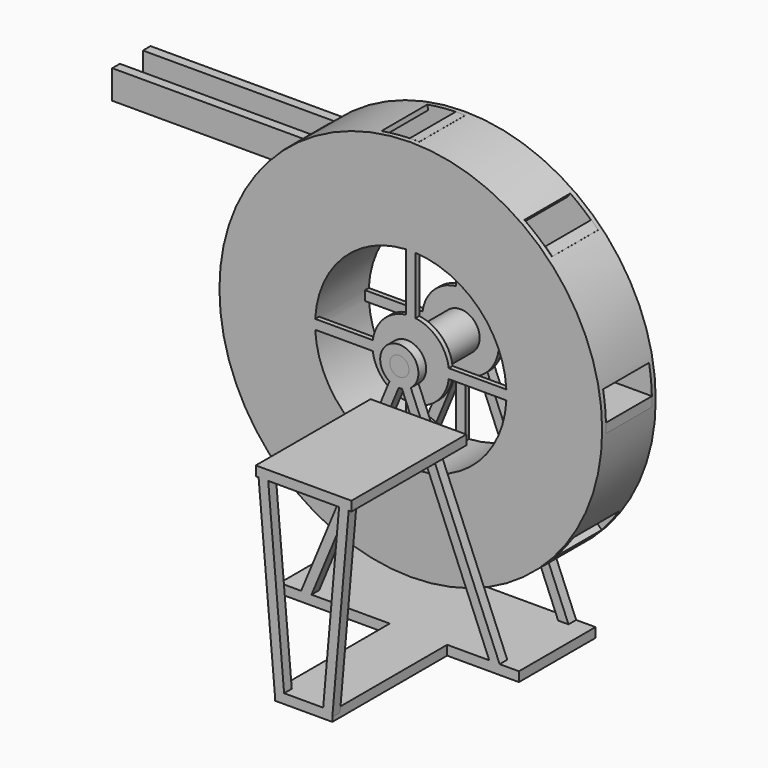
from build123d import *

# Parameters (mm, degrees)
CYLINDER007_R               = 1
CYLINDER007_DEPTH           = 10
BOX023_W                    = 40
BOX023_H                    = 1
BOX023_DEPTH                = 5
BOX025_W                    = 40
BOX025_H                    = 1
BOX025_DEPTH                = 2
BOX026_W                    = 40
BOX026_H                    = 1
BOX026_DEPTH                = 2
BOX029_W                    = 1
BOX029_H                    = 2
BOX029_DEPTH                = 3
FUSION014_PLACEMENT_ANGLE   = 90
BOX024_W                    = 2
BOX024_H                    = 9.5
BOX024_DEPTH                = 1
BOX021_W                    = 10
BOX021_H                    = 1
BOX021_DEPTH                = 15
BOX027_W                    = 1
BOX027_H                    = 20
BOX027_DEPTH                = 1
BOX027_PLACEMENT_ANGLE      = 355
BOX020_W                    = 25
BOX020_H                    = 1
BOX020_DEPTH                = 10
BOX022_W                    = 6
BOX022_H                    = 1
BOX022_DEPTH                = 15
BOX028_W                    = 1
BOX028_H                    = 20
BOX028_DEPTH                = 1
BOX028_PLACEMENT_ANGLE      = 5
BOX017_W                    = 1
BOX017_H                    = 25
BOX017_DEPTH                = 1
BOX017_PLACEMENT_ANGLE      = 135
BOX_W                       = 1
BOX_H                       = 1
BOX_DEPTH                   = 25
CYLINDER013_R               = 1
CYLINDER013_DEPTH           = 1
CYLINDER014_R               = 2
CYLINDER014_DEPTH           = 1
FUSION008_PLACEMENT_ANGLE   = 22.5
BOX019_W                    = 1
BOX019_H                    = 25
BOX019_DEPTH                = 1
BOX019_PLACEMENT_ANGLE      = 135
BOX018_W                    = 1
BOX018_H                    = 1
BOX018_DEPTH                = 25
CYLINDER016_R               = 1
CYLINDER016_DEPTH           = 1
CYLINDER015_R               = 2
CYLINDER015_DEPTH           = 1
FUSION009_PLACEMENT_ANGLE   = 22.5
CYLINDER033_W               = 0.9
CYLINDER033_H               = 2
CYLINDER033_ANGLE           = 180
BOX030_W                    = 2
BOX030_H                    = 1
BOX030_DEPTH                = 2
FUSION015_PLACEMENT_ANGLE   = 90
CYLINDER029_R               = 0.5
CYLINDER029_DEPTH           = 1
CYLINDER032_R               = 0.5
CYLINDER032_DEPTH           = 1
CYLINDER024_R               = 0.5
CYLINDER024_DEPTH           = 1
CYLINDER031_R               = 0.5
CYLINDER031_DEPTH           = 1
CYLINDER030_R               = 0.5
CYLINDER030_DEPTH           = 1
CYLINDER022_R               = 0.5
CYLINDER022_DEPTH           = 1
CYLINDER021_R               = 0.5
CYLINDER021_DEPTH           = 1
CYLINDER020_R               = 0.5
CYLINDER020_DEPTH           = 1
CYLINDER019_R               = 1
CYLINDER019_DEPTH           = 10
CYLINDER018_W               = 20
CYLINDER018_H               = 7
CYLINDER018_ANGLE           = 10
CYLINDER018_PLACEMENT_ANGLE = 44
CYLINDER017_W               = 20
CYLINDER017_H               = 7
CYLINDER017_ANGLE           = 10
CYLINDER028_W               = 20
CYLINDER028_H               = 7
CYLINDER028_ANGLE           = 10
CYLINDER027_W               = 20
CYLINDER027_H               = 7
CYLINDER027_ANGLE           = 10
CYLINDER027_PLACEMENT_ANGLE = 227
CYLINDER026_W               = 20
CYLINDER026_H               = 7
CYLINDER026_ANGLE           = 10
CYLINDER025_W               = 20
CYLINDER025_H               = 7
CYLINDER025_ANGLE           = 10
CYLINDER025_PLACEMENT_ANGLE = 135
CYLINDER012_W               = 20
CYLINDER012_H               = 7
CYLINDER012_ANGLE           = 10
CYLINDER012_PLACEMENT_ANGLE = 45
CYLINDER011_W               = 20
CYLINDER011_H               = 7
CYLINDER011_ANGLE           = 10
CYLINDER001_R               = 19.5
CYLINDER001_DEPTH           = 7
CYLINDER_R                  = 20
CYLINDER_DEPTH              = 7
CYLINDER008_R               = 10
CYLINDER008_DEPTH           = 6
CYLINDER009_R               = 11
CYLINDER009_DEPTH           = 6
BOX010_W                    = 1
BOX010_H                    = 10
BOX010_DEPTH                = 6
BOX010_PLACEMENT_ANGLE      = 45
BOX004_W                    = 1
BOX004_H                    = 10
BOX004_DEPTH                = 6
BOX011_W                    = 1
BOX011_H                    = 10
BOX011_DEPTH                = 6
BOX014_W                    = 1
BOX014_H                    = 10
BOX014_DEPTH                = 6
BOX014_PLACEMENT_ANGLE      = 45
BOX013_W                    = 1
BOX013_H                    = 10
BOX013_DEPTH                = 6
BOX012_W                    = 1
BOX012_H                    = 10
BOX012_DEPTH                = 6
BOX015_W                    = 1
BOX015_H                    = 10
BOX015_DEPTH                = 6
BOX015_PLACEMENT_ANGLE      = 45
BOX016_W                    = 1
BOX016_H                    = 10
BOX016_DEPTH                = 6
BOX016_PLACEMENT_ANGLE      = 45
CYLINDER005_R               = 10
CYLINDER005_DEPTH           = 0.5
CYLINDER006_R               = 20
CYLINDER006_DEPTH           = 0.5
BOX007_W                    = 20
BOX007_H                    = 1
BOX007_DEPTH                = 0.5
BOX001_W                    = 20
BOX001_H                    = 1
BOX001_DEPTH                = 0.5
CYLINDER002_R               = 4
CYLINDER002_DEPTH           = 0.5
CYLINDER003_R               = 10
CYLINDER003_DEPTH           = 0.5
CYLINDER010_R               = 20
CYLINDER010_DEPTH           = 0.5
BOX009_W                    = 20
BOX009_H                    = 1
BOX009_DEPTH                = 0.5
CYLINDER004_R               = 4
CYLINDER004_DEPTH           = 0.5
BOX008_W                    = 20
BOX008_H                    = 1
BOX008_DEPTH                = 0.5
CUT020_PLACEMENT_ANGLE      = 90
CYLINDER035_R               = 1
CYLINDER035_DEPTH           = 6
CYLINDER034_R               = 2
CYLINDER034_DEPTH           = 6


with BuildPart() as eje:
    # Cylinder007 → Cylinder007 (new body)
    with BuildSketch(Plane(origin=(0, 2, 25), x_dir=(1, 0, 0), z_dir=(0, -1, 0))):
        Circle(CYLINDER007_R)
    extrude(amount=CYLINDER007_DEPTH)


with BuildPart() as cubo021:
    # Box023 → Box023 (new body)
    with BuildSketch(Plane(origin=(-38, 33, -7), x_dir=(1, 0, 0), z_dir=(0, 0, 1))):
        with Locations((20, 0.5)):
            Rectangle(BOX023_W, BOX023_H)
    extrude(amount=BOX023_DEPTH)


with BuildPart() as cubo023:
    # Box025 → Box025 (new body)
    with BuildSketch(Plane(origin=(-38, 36, -7), x_dir=(1, 0, 0), z_dir=(0, -1, 0))):
        with Locations((20, 0.5)):
            Rectangle(BOX025_W, BOX025_H)
    extrude(amount=BOX025_DEPTH)


with BuildPart() as cubo024:
    # Box026 → Box026 (new body)
    with BuildSketch(Plane(origin=(-38, 36, -3), x_dir=(1, 0, 0), z_dir=(0, -1, 0))):
        with Locations((20, 0.5)):
            Rectangle(BOX026_W, BOX026_H)
    extrude(amount=BOX026_DEPTH)


with BuildPart() as canal:
    # Box029 → Box029 (new body)
    with BuildSketch(Plane(origin=(1, 34, -6), x_dir=(1, 0, 0), z_dir=(0, 0, 1))):
        with Locations((0.5, 1)):
            Rectangle(BOX029_W, BOX029_H)
    extrude(amount=BOX029_DEPTH)

    # Fusion014: union Cubo021, Cubo023, Cubo024
    add(cubo021.part)
    add(cubo023.part)
    add(cubo024.part)


with BuildPart() as canal_1:
    # Fusion014 placement: moved
    add(canal.part.rotate(Axis((0, 0, 0), (1, 0, 0)), FUSION014_PLACEMENT_ANGLE))


with BuildPart() as cubo022:
    # Box024 → Box024 (new body)
    with BuildSketch(Plane(origin=(-1, 26.5, -2), x_dir=(1, 0, 0), z_dir=(0, 0, 1))):
        with Locations((1, 4.75)):
            Rectangle(BOX024_W, BOX024_H)
    extrude(amount=BOX024_DEPTH)


with BuildPart() as cubo019:
    # Box021 → Box021 (new body)
    with BuildSketch(Plane(origin=(-3, 20, 8), x_dir=(1, 0, 0), z_dir=(0, 0, 1))):
        with Locations((5, 0.5)):
            Rectangle(BOX021_W, BOX021_H)
    extrude(amount=BOX021_DEPTH)


with BuildPart() as cubo025:
    # Box027 → Box027 (new body)
    with BuildSketch(Plane.XY):
        with Locations((0.5, 10)):
            Rectangle(BOX027_W, BOX027_H)
    extrude(amount=BOX027_DEPTH)


with BuildPart() as cubo025_1:
    # Box027 placement: moved
    add(cubo025.part.moved(Location((4, 0.5, 22))).rotate(Axis((4, 0.5, 22), (0, 0, 1)), BOX027_PLACEMENT_ANGLE))


with BuildPart() as base:
    # Box020 → Box020 (new body)
    with BuildSketch(Plane(origin=(-12.5, 0, -2), x_dir=(1, 0, 0), z_dir=(0, 0, 1))):
        with Locations((12.5, 0.5)):
            Rectangle(BOX020_W, BOX020_H)
    extrude(amount=BOX020_DEPTH)


with BuildPart() as obj1:
    # Box022 → Box022 (new body)
    with BuildSketch(Plane(origin=(-1, 0, 8), x_dir=(1, 0, 0), z_dir=(0, 0, 1))):
        with Locations((3, 0.5)):
            Rectangle(BOX022_W, BOX022_H)
    extrude(amount=BOX022_DEPTH)

    # Fusion011: union BASE
    add(base.part)


with BuildPart() as cubo026:
    # Box028 → Box028 (new body)
    with BuildSketch(Plane.XY):
        with Locations((0.5, 10)):
            Rectangle(BOX028_W, BOX028_H)
    extrude(amount=BOX028_DEPTH)


with BuildPart() as cubo026_1:
    # Box028 placement: moved
    add(cubo026.part.moved(Location((-1, 0.5, 22))).rotate(Axis((-1, 0.5, 22), (0, 0, 1)), BOX028_PLACEMENT_ANGLE))


with BuildPart() as cubo016:
    # Box017 → Box017 (new body)
    with BuildSketch(Plane.XY):
        with Locations((0.5, 12.5)):
            Rectangle(BOX017_W, BOX017_H)
    extrude(amount=BOX017_DEPTH)


with BuildPart() as cubo016_1:
    # Box017 placement: moved
    add(cubo016.part.moved(Location((-0.5, -1.5, -2))).rotate(Axis((-0.5, -1.5, -2), (0, 0, 1)), BOX017_PLACEMENT_ANGLE))


with BuildPart() as cubo015:
    # Box → Box (new body)
    with BuildSketch(Plane(origin=(-0.5, -1.5, -2), x_dir=(1, 0, 0), z_dir=(0, -1, 0))):
        with Locations((0.5, 0.5)):
            Rectangle(BOX_W, BOX_H)
    extrude(amount=BOX_DEPTH)


with BuildPart() as cilindro013:
    # Cylinder013 → Cylinder013 (new body)
    with BuildSketch(Plane.XY.offset(6.5)):
        Circle(CYLINDER013_R)
    extrude(amount=CYLINDER013_DEPTH)


with BuildPart() as obj2:
    # Cylinder014 → Cylinder014 (new body)
    with BuildSketch(Plane.XY.offset(6.5)):
        Circle(CYLINDER014_R)
    extrude(amount=CYLINDER014_DEPTH)

    # Cut004: cut Cilindro013
    add(cilindro013.part, mode=Mode.SUBTRACT)


with BuildPart() as obj2_1:
    # Cut004 placement: moved
    add(obj2.part.moved(Location((0, 0, -8.5))))

    # Fusion008: union Cubo016, Cubo015
    add(cubo016_1.part)
    add(cubo015.part)


with BuildPart() as obj2_2:
    # Fusion008 placement: moved
    add(obj2_1.part.moved(Location((0, 25, 0))).rotate(Axis((0, 25, 0), (0, 0, 1)), FUSION008_PLACEMENT_ANGLE))


with BuildPart() as cubo018:
    # Box019 → Box019 (new body)
    with BuildSketch(Plane.XY):
        with Locations((0.5, 12.5)):
            Rectangle(BOX019_W, BOX019_H)
    extrude(amount=BOX019_DEPTH)


with BuildPart() as cubo018_1:
    # Box019 placement: moved
    add(cubo018.part.moved(Location((-0.5, -1.5, -2))).rotate(Axis((-0.5, -1.5, -2), (0, 0, 1)), BOX019_PLACEMENT_ANGLE))


with BuildPart() as cubo017:
    # Box018 → Box018 (new body)
    with BuildSketch(Plane(origin=(-0.5, -1.5, -2), x_dir=(1, 0, 0), z_dir=(0, -1, 0))):
        with Locations((0.5, 0.5)):
            Rectangle(BOX018_W, BOX018_H)
    extrude(amount=BOX018_DEPTH)


with BuildPart() as cilindro016:
    # Cylinder016 → Cylinder016 (new body)
    with BuildSketch(Plane.XY.offset(6.5)):
        Circle(CYLINDER016_R)
    extrude(amount=CYLINDER016_DEPTH)


with BuildPart() as obj3:
    # Cylinder015 → Cylinder015 (new body)
    with BuildSketch(Plane.XY.offset(6.5)):
        Circle(CYLINDER015_R)
    extrude(amount=CYLINDER015_DEPTH)

    # Cut005: cut Cilindro016
    add(cilindro016.part, mode=Mode.SUBTRACT)


with BuildPart() as obj3_1:
    # Cut005 placement: moved
    add(obj3.part.moved(Location((0, 0, -8.5))))

    # Fusion009: union Cubo018, Cubo017
    add(cubo018_1.part)
    add(cubo017.part)


with BuildPart() as obj3_2:
    # Fusion009 placement: moved
    add(obj3_1.part.moved(Location((0, 25, 9))).rotate(Axis((0, 25, 9), (0, 0, 1)), FUSION009_PLACEMENT_ANGLE))


with BuildPart() as cilindro033:
    # Cylinder033 → Cylinder033 (revolve)
    with BuildSketch(Plane(origin=(0, 37, -3), x_dir=(-1, 0, 0), z_dir=(0, 1, 0))):
        with Locations((0.45, 1)):
            Rectangle(CYLINDER033_W, CYLINDER033_H)
    revolve(axis=Axis((0, 37, -3), (0, 0, 1)), revolution_arc=CYLINDER033_ANGLE)


with BuildPart() as obj4:
    # Box030 → Box030 (new body)
    with BuildSketch(Plane(origin=(-1, 36, -3), x_dir=(1, 0, 0), z_dir=(0, 0, 1))):
        with Locations((1, 0.5)):
            Rectangle(BOX030_W, BOX030_H)
    extrude(amount=BOX030_DEPTH)

    # Cut023: cut Cilindro033
    add(cilindro033.part, mode=Mode.SUBTRACT)

    # Fusion015: union Cubo022, Cubo019, Cubo025, obj1, Cubo026, obj2, obj3
    add(cubo022.part)
    add(cubo019.part)
    add(cubo025_1.part)
    add(obj1.part)
    add(cubo026_1.part)
    add(obj2_2.part)
    add(obj3_2.part)


with BuildPart() as obj4_1:
    # Fusion015 placement: moved
    add(obj4.part.rotate(Axis((0, 0, 0), (1, 0, 0)), FUSION015_PLACEMENT_ANGLE))


with BuildPart() as cilindro029:
    # Cylinder029 → Cylinder029 (new body)
    with BuildSketch(Plane(origin=(-9.5, -8, -1), x_dir=(1, 0, 0), z_dir=(0, 0, 1))):
        Circle(CYLINDER029_R)
    extrude(amount=CYLINDER029_DEPTH)


with BuildPart() as cilindro032:
    # Cylinder032 → Cylinder032 (new body)
    with BuildSketch(Plane(origin=(-12, 1.5, -1), x_dir=(1, 0, 0), z_dir=(0, 0, 1))):
        Circle(CYLINDER032_R)
    extrude(amount=CYLINDER032_DEPTH)


with BuildPart() as cilindro024:
    # Cylinder024 → Cylinder024 (new body)
    with BuildSketch(Plane(origin=(-1.5, -12, -1), x_dir=(1, 0, 0), z_dir=(0, 0, 1))):
        Circle(CYLINDER024_R)
    extrude(amount=CYLINDER024_DEPTH)


with BuildPart() as cilindro031:
    # Cylinder031 → Cylinder031 (new body)
    with BuildSketch(Plane(origin=(-7, 9.5, -1), x_dir=(1, 0, 0), z_dir=(0, 0, 1))):
        Circle(CYLINDER031_R)
    extrude(amount=CYLINDER031_DEPTH)


with BuildPart() as cilindro030:
    # Cylinder030 → Cylinder030 (new body)
    with BuildSketch(Plane(origin=(9, 7.5, -1), x_dir=(1, 0, 0), z_dir=(0, 0, 1))):
        Circle(CYLINDER030_R)
    extrude(amount=CYLINDER030_DEPTH)


with BuildPart() as cilindro022:
    # Cylinder022 → Cylinder022 (new body)
    with BuildSketch(Plane(origin=(12, -1.5, -1), x_dir=(1, 0, 0), z_dir=(0, 0, 1))):
        Circle(CYLINDER022_R)
    extrude(amount=CYLINDER022_DEPTH)


with BuildPart() as cilindro021:
    # Cylinder021 → Cylinder021 (new body)
    with BuildSketch(Plane(origin=(1.5, 12, -1), x_dir=(1, 0, 0), z_dir=(0, 0, 1))):
        Circle(CYLINDER021_R)
    extrude(amount=CYLINDER021_DEPTH)


with BuildPart() as cilindro020:
    # Cylinder020 → Cylinder020 (new body)
    with BuildSketch(Plane(origin=(7.5, -9.5, -1), x_dir=(1, 0, 0), z_dir=(0, 0, 1))):
        Circle(CYLINDER020_R)
    extrude(amount=CYLINDER020_DEPTH)


with BuildPart() as cilindro019:
    # Cylinder019 → Cylinder019 (new body)
    with BuildSketch(Plane.XY.offset(-1)):
        Circle(CYLINDER019_R)
    extrude(amount=CYLINDER019_DEPTH)


with BuildPart() as cilindro018:
    # Cylinder018 → Cylinder018 (revolve)
    with BuildSketch(Plane.XZ):
        with Locations((10, 3.5)):
            Rectangle(CYLINDER018_W, CYLINDER018_H)
    revolve(axis=Axis((0, 0, 0), (0, 0, 1)), revolution_arc=CYLINDER018_ANGLE)


with BuildPart() as cilindro018_1:
    # Cylinder018 placement: moved
    add(cilindro018.part.moved(Location((0, 0, -0.5))).rotate(Axis((0, 0, -0.5), (0, 0, -1)), CYLINDER018_PLACEMENT_ANGLE))


with BuildPart() as cilindro017:
    # Cylinder017 → Cylinder017 (revolve)
    with BuildSketch(Plane(origin=(0, 0, -0.5), x_dir=(0, -1, 0), z_dir=(-1, 0, 0))):
        with Locations((10, 3.5)):
            Rectangle(CYLINDER017_W, CYLINDER017_H)
    revolve(axis=Axis((0, 0, -0.5), (0, 0, 1)), revolution_arc=CYLINDER017_ANGLE)


with BuildPart() as cilindro028:
    # Cylinder028 → Cylinder028 (revolve)
    with BuildSketch(Plane(origin=(0, 0, -0.5), x_dir=(-1, 0, 0), z_dir=(0, 1, 0))):
        with Locations((10, 3.5)):
            Rectangle(CYLINDER028_W, CYLINDER028_H)
    revolve(axis=Axis((0, 0, -0.5), (0, 0, 1)), revolution_arc=CYLINDER028_ANGLE)


with BuildPart() as cilindro027:
    # Cylinder027 → Cylinder027 (revolve)
    with BuildSketch(Plane.XZ):
        with Locations((10, 3.5)):
            Rectangle(CYLINDER027_W, CYLINDER027_H)
    revolve(axis=Axis((0, 0, 0), (0, 0, 1)), revolution_arc=CYLINDER027_ANGLE)


with BuildPart() as cilindro027_1:
    # Cylinder027 placement: moved
    add(cilindro027.part.moved(Location((0, 0, -0.5))).rotate(Axis((0, 0, -0.5), (0, 0, 1)), CYLINDER027_PLACEMENT_ANGLE))


with BuildPart() as cilindro026:
    # Cylinder026 → Cylinder026 (revolve)
    with BuildSketch(Plane(origin=(0, 0, -0.5), x_dir=(0, 1, 0), z_dir=(1, 0, 0))):
        with Locations((10, 3.5)):
            Rectangle(CYLINDER026_W, CYLINDER026_H)
    revolve(axis=Axis((0, 0, -0.5), (0, 0, 1)), revolution_arc=CYLINDER026_ANGLE)


with BuildPart() as cilindro025:
    # Cylinder025 → Cylinder025 (revolve)
    with BuildSketch(Plane.XZ):
        with Locations((10, 3.5)):
            Rectangle(CYLINDER025_W, CYLINDER025_H)
    revolve(axis=Axis((0, 0, 0), (0, 0, 1)), revolution_arc=CYLINDER025_ANGLE)


with BuildPart() as cilindro025_1:
    # Cylinder025 placement: moved
    add(cilindro025.part.moved(Location((0, 0, -0.5))).rotate(Axis((0, 0, -0.5), (0, 0, 1)), CYLINDER025_PLACEMENT_ANGLE))


with BuildPart() as cilindro012:
    # Cylinder012 → Cylinder012 (revolve)
    with BuildSketch(Plane.XZ):
        with Locations((10, 3.5)):
            Rectangle(CYLINDER012_W, CYLINDER012_H)
    revolve(axis=Axis((0, 0, 0), (0, 0, 1)), revolution_arc=CYLINDER012_ANGLE)


with BuildPart() as cilindro012_1:
    # Cylinder012 placement: moved
    add(cilindro012.part.moved(Location((0, 0, -0.5))).rotate(Axis((0, 0, -0.5), (0, 0, 1)), CYLINDER012_PLACEMENT_ANGLE))


with BuildPart() as cilindro011:
    # Cylinder011 → Cylinder011 (revolve)
    with BuildSketch(Plane(origin=(0, 0, -0.5), x_dir=(1, 0, 0), z_dir=(0, -1, 0))):
        with Locations((10, 3.5)):
            Rectangle(CYLINDER011_W, CYLINDER011_H)
    revolve(axis=Axis((0, 0, -0.5), (0, 0, 1)), revolution_arc=CYLINDER011_ANGLE)


with BuildPart() as cilindro001:
    # Cylinder001 → Cylinder001 (new body)
    with BuildSketch(Plane.XY):
        Circle(CYLINDER001_R)
    extrude(amount=CYLINDER001_DEPTH)


with BuildPart() as cut011:
    # Cylinder → Cylinder (new body)
    with BuildSketch(Plane.XY):
        Circle(CYLINDER_R)
    extrude(amount=CYLINDER_DEPTH)

    # Cut: cut Cilindro001
    add(cilindro001.part, mode=Mode.SUBTRACT)


with BuildPart() as cut011_1:
    # Cut placement: moved
    add(cut011.part.moved(Location((0, 0, -0.5))))

    # Cut021: cut Cilindro011
    add(cilindro011.part, mode=Mode.SUBTRACT)

    # Cut022: cut Cilindro012
    add(cilindro012_1.part, mode=Mode.SUBTRACT)

    # Cut006: cut Cilindro025
    add(cilindro025_1.part, mode=Mode.SUBTRACT)

    # Cut007: cut Cilindro026
    add(cilindro026.part, mode=Mode.SUBTRACT)

    # Cut008: cut Cilindro027
    add(cilindro027_1.part, mode=Mode.SUBTRACT)

    # Cut009: cut Cilindro028
    add(cilindro028.part, mode=Mode.SUBTRACT)

    # Cut010: cut Cilindro017
    add(cilindro017.part, mode=Mode.SUBTRACT)

    # Cut011: cut Cilindro018
    add(cilindro018_1.part, mode=Mode.SUBTRACT)


with BuildPart() as cilindro008:
    # Cylinder008 → Cylinder008 (new body)
    with BuildSketch(Plane.XY):
        Circle(CYLINDER008_R)
    extrude(amount=CYLINDER008_DEPTH)


with BuildPart() as cut003:
    # Cylinder009 → Cylinder009 (new body)
    with BuildSketch(Plane.XY):
        Circle(CYLINDER009_R)
    extrude(amount=CYLINDER009_DEPTH)

    # Cut003: cut Cilindro008
    add(cilindro008.part, mode=Mode.SUBTRACT)


with BuildPart() as cubo009:
    # Box010 → Box010 (new body)
    with BuildSketch(Plane.XY):
        with Locations((0.5, 5)):
            Rectangle(BOX010_W, BOX010_H)
    extrude(amount=BOX010_DEPTH)


with BuildPart() as cubo009_1:
    # Box010 placement: moved
    add(cubo009.part.moved(Location((-7.311779, 6.874026, 0))).rotate(Axis((-7.311779, 6.874026, 0), (0, 0, 1)), BOX010_PLACEMENT_ANGLE))


with BuildPart() as cubo011:
    # Box004 → Box004 (new body)
    with BuildSketch(Plane(origin=(-0.5, 10, 0), x_dir=(1, 0, 0), z_dir=(0, 0, 1))):
        with Locations((0.5, 5)):
            Rectangle(BOX004_W, BOX004_H)
    extrude(amount=BOX004_DEPTH)


with BuildPart() as cubo010:
    # Box011 → Box011 (new body)
    with BuildSketch(Plane(origin=(-0.5, -20, 0), x_dir=(1, 0, 0), z_dir=(0, 0, 1))):
        with Locations((0.5, 5)):
            Rectangle(BOX011_W, BOX011_H)
    extrude(amount=BOX011_DEPTH)


with BuildPart() as cubo012:
    # Box014 → Box014 (new body)
    with BuildSketch(Plane.XY):
        with Locations((0.5, 5)):
            Rectangle(BOX014_W, BOX014_H)
    extrude(amount=BOX014_DEPTH)


with BuildPart() as cubo012_1:
    # Box014 placement: moved
    add(cubo012.part.moved(Location((14.04, -14.23, 0))).rotate(Axis((14.04, -14.23, 0), (0, 0, 1)), BOX014_PLACEMENT_ANGLE))


with BuildPart() as cubo007:
    # Box013 → Box013 (new body)
    with BuildSketch(Plane(origin=(20, -0.5, 0), x_dir=(0, 1, 0), z_dir=(0, 0, 1))):
        with Locations((0.5, 5)):
            Rectangle(BOX013_W, BOX013_H)
    extrude(amount=BOX013_DEPTH)


with BuildPart() as cubo006:
    # Box012 → Box012 (new body)
    with BuildSketch(Plane(origin=(-10, -0.5, 0), x_dir=(0, 1, 0), z_dir=(0, 0, 1))):
        with Locations((0.5, 5)):
            Rectangle(BOX012_W, BOX012_H)
    extrude(amount=BOX012_DEPTH)


with BuildPart() as cubo013:
    # Box015 → Box015 (new body)
    with BuildSketch(Plane.XY):
        with Locations((0.5, 5)):
            Rectangle(BOX015_W, BOX015_H)
    extrude(amount=BOX015_DEPTH)


with BuildPart() as cubo013_1:
    # Box015 placement: moved
    add(cubo013.part.moved(Location((-14, -14.3, 0))).rotate(Axis((-14, -14.3, 0), (0, 0, -1)), BOX015_PLACEMENT_ANGLE))


with BuildPart() as cubo014:
    # Box016 → Box016 (new body)
    with BuildSketch(Plane.XY):
        with Locations((0.5, 5)):
            Rectangle(BOX016_W, BOX016_H)
    extrude(amount=BOX016_DEPTH)


with BuildPart() as cubo014_1:
    # Box016 placement: moved
    add(cubo014.part.moved(Location((6.600199, 7.594127, 0))).rotate(Axis((6.600199, 7.594127, 0), (0, 0, -1)), BOX016_PLACEMENT_ANGLE))


with BuildPart() as cilindro005:
    # Cylinder005 → Cylinder005 (new body)
    with BuildSketch(Plane.XY):
        Circle(CYLINDER005_R)
    extrude(amount=CYLINDER005_DEPTH)


with BuildPart() as cut001:
    # Cylinder006 → Cylinder006 (new body)
    with BuildSketch(Plane.XY):
        Circle(CYLINDER006_R)
    extrude(amount=CYLINDER006_DEPTH)

    # Cut001: cut Cilindro005
    add(cilindro005.part, mode=Mode.SUBTRACT)


with BuildPart() as cubo:
    # Box007 → Box007 (new body)
    with BuildSketch(Plane(origin=(-10, -0.5, 0), x_dir=(1, 0, 0), z_dir=(0, 0, 1))):
        with Locations((10, 0.5)):
            Rectangle(BOX007_W, BOX007_H)
    extrude(amount=BOX007_DEPTH)


with BuildPart() as cubo003:
    # Box001 → Box001 (new body)
    with BuildSketch(Plane(origin=(0.5, -10, 0), x_dir=(0, 1, 0), z_dir=(0, 0, 1))):
        with Locations((10, 0.5)):
            Rectangle(BOX001_W, BOX001_H)
    extrude(amount=BOX001_DEPTH)


with BuildPart() as fusion007:
    # Cylinder002 → Cylinder002 (new body)
    with BuildSketch(Plane.XY):
        Circle(CYLINDER002_R)
    extrude(amount=CYLINDER002_DEPTH)

    # Fusion007: union Cut001, Cubo, Cubo003
    add(cut001.part)
    add(cubo.part)
    add(cubo003.part)


with BuildPart() as fusion007_1:
    # Fusion007 placement: moved
    add(fusion007.part.moved(Location((0, 0, -0.5))))


with BuildPart() as cilindro003:
    # Cylinder003 → Cylinder003 (new body)
    with BuildSketch(Plane.XY):
        Circle(CYLINDER003_R)
    extrude(amount=CYLINDER003_DEPTH)


with BuildPart() as cut002:
    # Cylinder010 → Cylinder010 (new body)
    with BuildSketch(Plane.XY):
        Circle(CYLINDER010_R)
    extrude(amount=CYLINDER010_DEPTH)

    # Cut002: cut Cilindro003
    add(cilindro003.part, mode=Mode.SUBTRACT)


with BuildPart() as cubo005:
    # Box009 → Box009 (new body)
    with BuildSketch(Plane(origin=(-10, -0.5, 0), x_dir=(1, 0, 0), z_dir=(0, 0, 1))):
        with Locations((10, 0.5)):
            Rectangle(BOX009_W, BOX009_H)
    extrude(amount=BOX009_DEPTH)


with BuildPart() as cilindro004:
    # Cylinder004 → Cylinder004 (new body)
    with BuildSketch(Plane.XY):
        Circle(CYLINDER004_R)
    extrude(amount=CYLINDER004_DEPTH)


with BuildPart() as obj5:
    # Box008 → Box008 (new body)
    with BuildSketch(Plane(origin=(0.5, -10, 0), x_dir=(0, 1, 0), z_dir=(0, 0, 1))):
        with Locations((10, 0.5)):
            Rectangle(BOX008_W, BOX008_H)
    extrude(amount=BOX008_DEPTH)

    # Fusion006: union Cut002, Cubo005, Cilindro004
    add(cut002.part)
    add(cubo005.part)
    add(cilindro004.part)


with BuildPart() as obj5_1:
    # Fusion006 placement: moved
    add(obj5.part.moved(Location((0, 0, 6))))

    # Fusion: union Cut003, Cubo009, Cubo011, Cubo010, Cubo012, Cubo007, Cubo006, Cubo013, Cubo014, Fusion007
    add(cut003.part)
    add(cubo009_1.part)
    add(cubo011.part)
    add(cubo010.part)
    add(cubo012_1.part)
    add(cubo007.part)
    add(cubo006.part)
    add(cubo013_1.part)
    add(cubo014_1.part)
    add(fusion007_1.part)

    # Fusion010: union Cut011
    add(cut011_1.part)

    # Cut012: cut Cilindro019
    add(cilindro019.part, mode=Mode.SUBTRACT)

    # Cut013: cut Cilindro020
    add(cilindro020.part, mode=Mode.SUBTRACT)

    # Cut014: cut Cilindro021
    add(cilindro021.part, mode=Mode.SUBTRACT)

    # Cut015: cut Cilindro022
    add(cilindro022.part, mode=Mode.SUBTRACT)

    # Cut016: cut Cilindro030
    add(cilindro030.part, mode=Mode.SUBTRACT)

    # Cut017: cut Cilindro031
    add(cilindro031.part, mode=Mode.SUBTRACT)

    # Cut018: cut Cilindro024
    add(cilindro024.part, mode=Mode.SUBTRACT)

    # Cut019: cut Cilindro032
    add(cilindro032.part, mode=Mode.SUBTRACT)

    # Cut020: cut Cilindro029
    add(cilindro029.part, mode=Mode.SUBTRACT)


with BuildPart() as obj5_2:
    # Cut020 placement: moved
    add(obj5_1.part.moved(Location((0, 0, 25))).rotate(Axis((0, 0, 25), (1, 0, 0)), CUT020_PLACEMENT_ANGLE))


with BuildPart() as eje002:
    # Cylinder035 → Cylinder035 (new body)
    with BuildSketch(Plane(origin=(0, 0, 25), x_dir=(1, 0, 0), z_dir=(0, -1, 0))):
        Circle(CYLINDER035_R)
    extrude(amount=CYLINDER035_DEPTH)


with BuildPart() as obj6:
    # Cylinder034 → Cylinder034 (new body)
    with BuildSketch(Plane(origin=(0, 0, 25), x_dir=(1, 0, 0), z_dir=(0, -1, 0))):
        Circle(CYLINDER034_R)
    extrude(amount=CYLINDER034_DEPTH)

    # Cut024: cut EJE002
    add(eje002.part, mode=Mode.SUBTRACT)

    # Fusion016: union obj5
    add(obj5_2.part)


solid = Compound([eje.part, canal_1.part, obj4_1.part, obj6.part])
